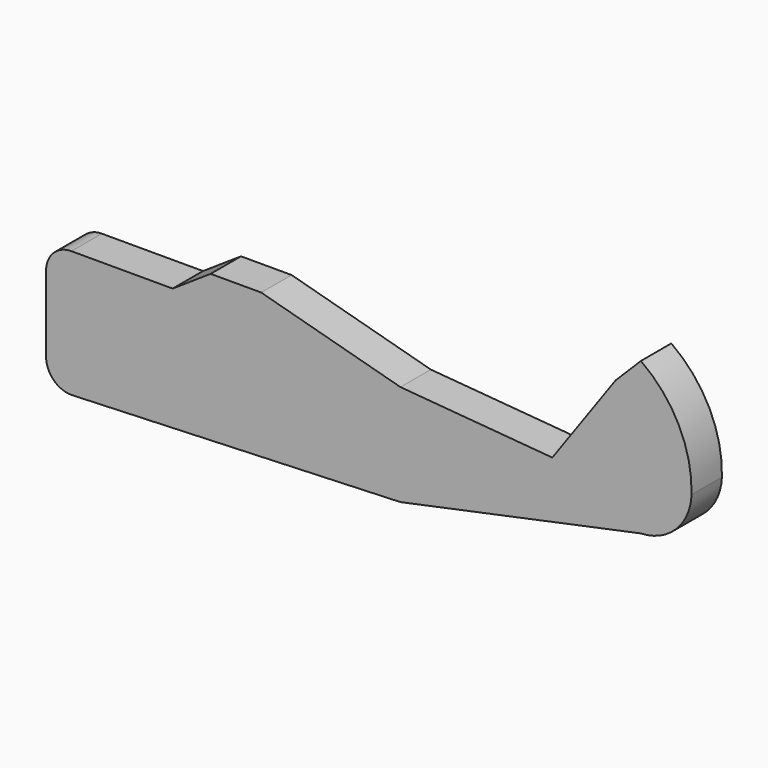
from build123d import *

# Parameters (mm, degrees)
F1_DEPTH = 19.05


with BuildPart() as f1:
    # F0 (on Front) → F1 (new body)
    with BuildSketch(Plane.XZ):
        with BuildLine():
            Line((-165.1, 0), (-165.1, -38.1))
            ThreePointArc((-165.1, -38.1), (-161.380256, -47.080256), (-152.4, -50.8))
            Line((-152.4, -50.8), (12.7, -44.45))
            Line((12.7, -44.45), (133.35, -19.05))
            ThreePointArc((133.35, -19.05), (151.04303, -11.34303), (158.75, 6.35))
            ThreePointArc((158.75, 6.35), (152.407404, 34.928702), (133.35, 57.15))
            Line((133.35, 57.15), (120.65, 44.45))
            Line((120.65, 44.45), (88.9, 0))
            Line((88.9, 0), (12.7, 6.35))
            Line((12.7, 6.35), (-57.15, 25.4))
            Line((-57.15, 25.4), (-82.55, 25.4))
            Line((-82.55, 25.4), (-101.6, 12.7))
            Line((-101.6, 12.7), (-152.4, 12.7))
            ThreePointArc((-152.4, 12.7), (-161.380256, 8.980256), (-165.1, 0))
        make_face()
    extrude(amount=F1_DEPTH)


solid = f1.part
